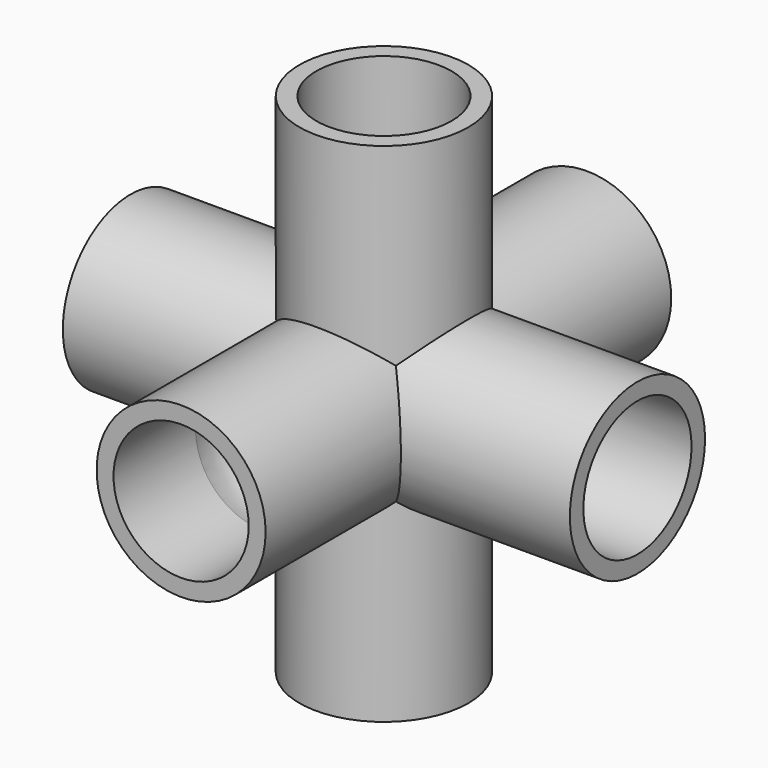
from build123d import *

# Parameters (mm, degrees)
F0_R      = 5
F3_DEPTH  = 15
F1_R      = 5
F4_DEPTH  = 15
F2_R      = 5
F5_DEPTH  = 15
F6_R      = 4
F9_DEPTH  = 15
F7_R      = 4
F10_DEPTH = 15
F8_R      = 4
F11_DEPTH = 15


with BuildPart() as f3:
    # F0 (on Top) → F3 (new body, symmetric)
    with BuildSketch(Plane.XY):
        Circle(F0_R)
    extrude(amount=F3_DEPTH, both=True)

    # F1 (on Right) → F4 (join, symmetric)
    with BuildSketch(Plane.YZ):
        Circle(F1_R)
    extrude(amount=F4_DEPTH, both=True)

    # F2 (on Front) → F5 (join, symmetric)
    with BuildSketch(Plane.XZ):
        Circle(F2_R)
    extrude(amount=F5_DEPTH, both=True)

    # F6 (on Top) → F9 (cut, symmetric)
    with BuildSketch(Plane.XY):
        Circle(F6_R)
    extrude(amount=F9_DEPTH, both=True, mode=Mode.SUBTRACT)

    # F7 (on Right) → F10 (cut, symmetric)
    with BuildSketch(Plane.YZ):
        Circle(F7_R)
    extrude(amount=F10_DEPTH, both=True, mode=Mode.SUBTRACT)

    # F8 (on Front) → F11 (cut, symmetric)
    with BuildSketch(Plane.XZ):
        Circle(F8_R)
    extrude(amount=F11_DEPTH, both=True, mode=Mode.SUBTRACT)

    # F18 (on offset) → F21 (revolve, cut)
    with BuildSketch(Plane.XZ.offset(7.5)):
        with BuildLine():
            ThreePointArc((0, -4.25), (4.25, 0), (0, 4.25))
            Line((0, 4.25), (0, -4.25))
        make_face()
    revolve(axis=Axis((0, -7.5, 0), (0, 0, -1)), mode=Mode.SUBTRACT)

    # F19 (on offset) → F22 (revolve, cut)
    with BuildSketch(Plane.XZ.offset(-7.5)):
        with BuildLine():
            Line((0, -4.25), (0, 4.25))
            ThreePointArc((0, 4.25), (-4.25, 0), (0, -4.25))
        make_face()
    revolve(axis=Axis((0, 7.5, 0), (0, 0, -1)), mode=Mode.SUBTRACT)

    # F20 (on offset) → F23 (revolve, cut)
    with BuildSketch(Plane.XY.offset(7.5)):
        with BuildLine():
            ThreePointArc((0, -4.25), (4.25, 0), (0, 4.25))
            Line((0, 4.25), (0, -4.25))
        make_face()
    revolve(axis=Axis((0, 0, 7.5), (0, -1, 0)), mode=Mode.SUBTRACT)

    # F24 (on offset) → F25 (revolve, cut)
    with BuildSketch(Plane.XY.offset(-7.5)):
        with BuildLine():
            Line((0, -4.234491849), (0, 4.234491849))
            ThreePointArc((0, 4.234491849), (-4.6127378959, 0), (0, -4.234491849))
        make_face()
    revolve(axis=Axis((0, 0, -7.5), (0, -1, 0)), mode=Mode.SUBTRACT)

    # F26 (on offset) → F27 (revolve, cut)
    with BuildSketch(Plane.YZ.offset(7.5)):
        with BuildLine():
            Line((2.6238781367, 3.3433162464), (-2.6238781367, -3.3433162464))
            ThreePointArc((-2.6238781367, -3.3433162464), (3.3433162464, -2.6238781367), (2.6238781367, 3.3433162464))
        make_face()
    revolve(axis=Axis((7.5, 0, 0), (0, 0.617383091, 0.7866626462)), mode=Mode.SUBTRACT)

    # F28 (on offset) → F29 (revolve, cut)
    with BuildSketch(Plane.YZ.offset(-7.5)):
        with BuildLine():
            ThreePointArc((2.8393945714, -3.1623311762), (3.1623311762, 2.8393945714), (-2.8393945714, 3.1623311762))
            Line((-2.8393945714, 3.1623311762), (2.8393945714, -3.1623311762))
        make_face()
    revolve(axis=Axis((-7.5, 0, 0), (0, 0.6680928403, -0.7440779238)), mode=Mode.SUBTRACT)


solid = f3.part
